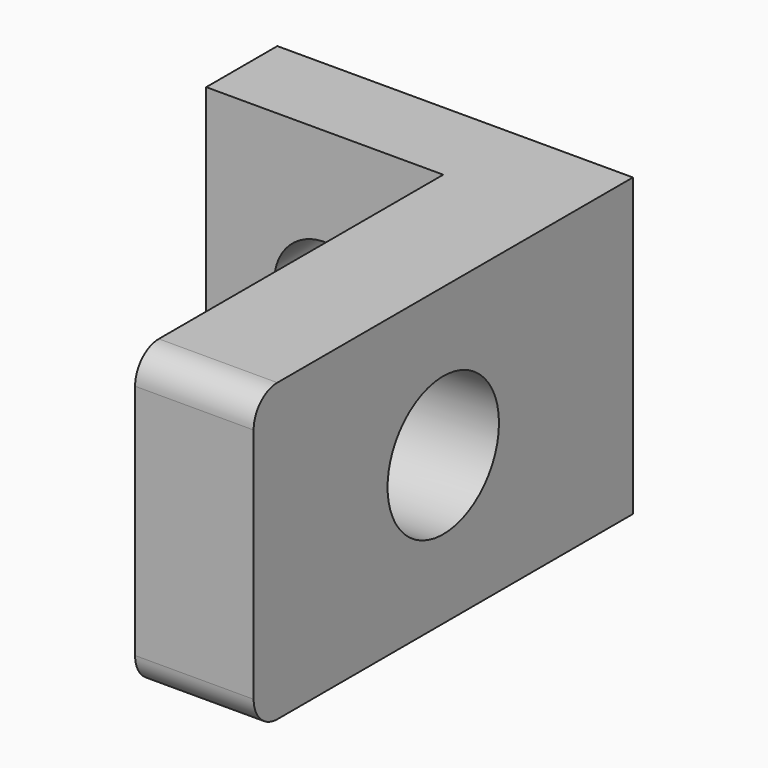
from build123d import *

# Parameters (mm, degrees)
PAD001_DEPTH = 10
SKETCH002_R  = 1.7
HOLE_DEPTH   = 25
SKETCH003_R  = 2.35
POCKET_DEPTH = 5
FILLET_R     = 1


with BuildPart() as part:
    # Sketch001 → Pad001 (new body)
    with BuildSketch(Plane.XY):
        Polygon((-10, 0), (-10, -3), (-2, -3), (-2, -16), (2, -16), (2, 0), align=None)
    extrude(amount=-PAD001_DEPTH)

    # Sketch002 (on Face2 of Pad001) → Hole (cut)
    with BuildSketch(Plane.XZ.offset(3)):
        with Locations((-6, -5)):
            Circle(SKETCH002_R)
    extrude(amount=-HOLE_DEPTH, mode=Mode.SUBTRACT)

    # Sketch003 (on Face6 of Hole) → Pocket (cut)
    with BuildSketch(Plane.YZ.offset(2)):
        with Locations((-8, -5)):
            Circle(SKETCH003_R)
    extrude(amount=-POCKET_DEPTH, mode=Mode.SUBTRACT)

    # Fillet
    fillet_edges = [part.edges().sort_by_distance(p)[0] for p in [
        (0, -16, 0),
        (0, -16, -10),
    ]]
    fillet(fillet_edges, radius=FILLET_R)


solid = part.part
